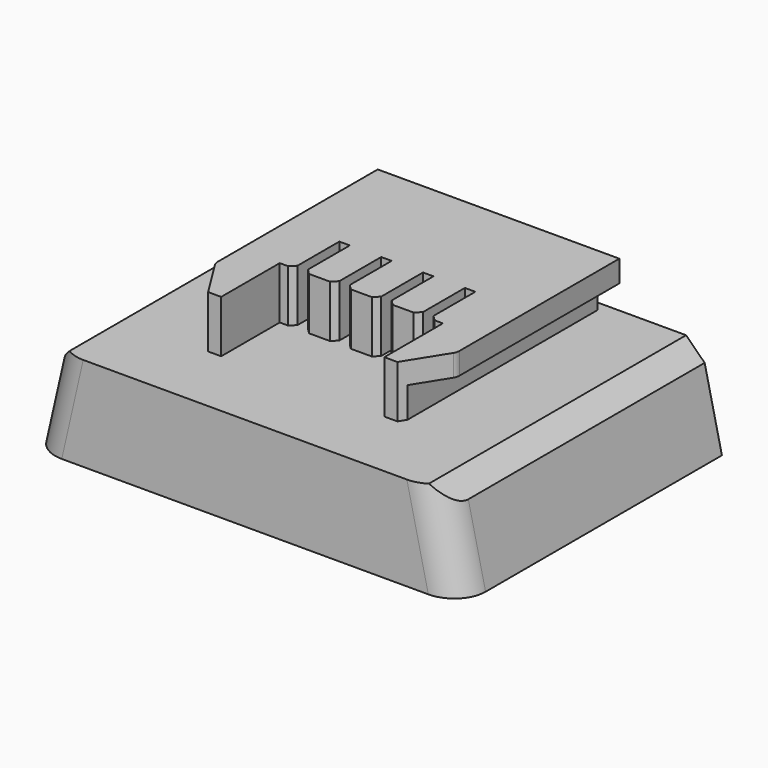
from build123d import *

# Parameters (mm, degrees)
PAD_DEPTH       = 13.79
PAD001_DEPTH    = 48.7
PAD002_DEPTH    = 46.8
SKETCH002_W     = 31.2
SKETCH002_H     = 10
POCKET_DEPTH    = 14
POCKET001_DEPTH = 10
FILLET_R        = 6
SKETCH004_W     = 2
SKETCH004_H     = 11
POCKET002_DEPTH = 10
POCKET003_DEPTH = 10
FILLET001_R     = 2


with BuildPart() as part:
    # Sketch → Pad (new body)
    with BuildSketch(Plane.XZ):
        Polygon((34.35, 0), (-34.35, 0), (-37.9, -3.5), (-41.2, -18), (41.2, -18), (37.9, -3.5), align=None)
    extrude(amount=PAD_DEPTH)

    # Sketch → Pad001 (join)
    with BuildSketch(Plane.XZ):
        Polygon((34.35, 0), (-34.35, 0), (-37.9, -3.5), (-41.2, -18), (41.2, -18), (37.9, -3.5), align=None)
    extrude(amount=-PAD001_DEPTH)

    # Sketch001 → Pad002 (join)
    with BuildSketch(Plane.XZ):
        Polygon((-18.95, 0), (-18.95, 5.83), (-23.1, 5.83), (-23.1, 10), (23.1, 10), (23.1, 5.83), (18.95, 5.83), (18.95, 0), align=None)
    extrude(amount=-PAD002_DEPTH)

    # Sketch002 → Pocket (cut)
    with BuildSketch(Plane.XZ):
        with Locations((0, 5)):
            Rectangle(SKETCH002_W, SKETCH002_H)
    extrude(amount=-POCKET_DEPTH, mode=Mode.SUBTRACT)

    # Sketch003 → Pocket001 (cut)
    with BuildSketch(Plane.XY):
        Polygon((18.1, 0), (23.1, 8), (23.1, 0), align=None)
        Polygon((-23.1, 0), (-23.1, 8), (-18.1, 0), align=None)
    extrude(amount=POCKET001_DEPTH, mode=Mode.SUBTRACT)

    # Fillet
    fillet_edges = [part.edges().sort_by_distance(p)[0] for p in [
        (39.55, -13.79, -10.75),
        (-39.55, -13.79, -10.75),
    ]]
    fillet(fillet_edges, radius=FILLET_R)

    # Sketch004 → Pocket002 (cut)
    with BuildSketch(Plane.XY):
        with Locations((-12, 19.5)):
            Rectangle(SKETCH004_W, SKETCH004_H)
        with Locations((-4, 19.5)):
            Rectangle(SKETCH004_W, SKETCH004_H)
        with Locations((4, 19.5)):
            Rectangle(SKETCH004_W, SKETCH004_H)
        with Locations((12, 19.5)):
            Rectangle(SKETCH004_W, SKETCH004_H)
    extrude(amount=POCKET002_DEPTH, mode=Mode.SUBTRACT)

    # Sketch005 (on Face25 of Pocket002) → Pocket003 (cut)
    with BuildSketch(Plane(origin=(0, 0, 10), x_dir=(-1, 0, 0), z_dir=(0, 0, 1))):
        Polygon((13, -15), (14, -14), (13, -14), align=None)
        Polygon((11, -14), (11, -15), (10, -14), align=None)
        Polygon((5, -15), (6, -14), (5, -14), align=None)
        Polygon((2, -14), (3, -15), (3, -14), align=None)
        Polygon((-3, -14), (-3, -15), (-2, -14), align=None)
        Polygon((-6, -14), (-5, -15), (-5, -14), align=None)
        Polygon((-11, -14), (-11, -15), (-10, -14), align=None)
        Polygon((-13, -14), (-13, -15), (-14, -14), align=None)
    extrude(amount=-POCKET003_DEPTH, mode=Mode.SUBTRACT)

    # Fillet001
    fillet001_edges = [part.edges().sort_by_distance(p)[0] for p in [
        (23.1, 8, 7.915),
        (-23.1, 8, 7.915),
    ]]
    fillet(fillet001_edges, radius=FILLET001_R)


solid = part.part
